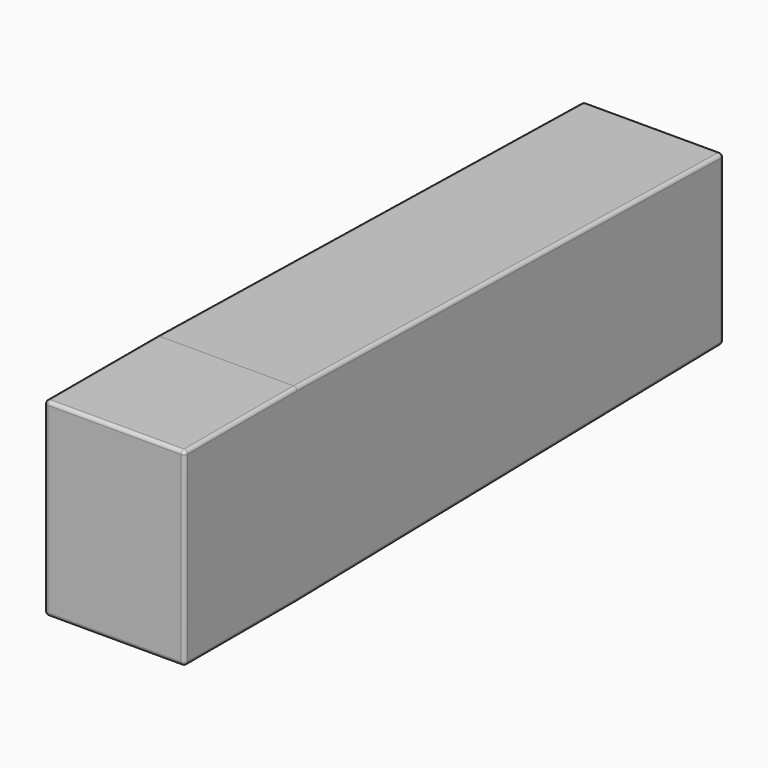
from build123d import *

# Parameters (mm, degrees)
F0_W     = 100
F0_H     = 135
F0_W_2   = 60
F0_H_2   = 120
F1_DEPTH = 100
F2_R     = 2.5


with BuildPart() as f1:
    # F0 (on Right) → F1 (new body)
    with BuildSketch(Plane.YZ):
        Rectangle(F0_W, F0_H)
        Polygon((430, 60), (50, 67.5), (50, -67.5), (430, -60), (370, -60), (370, 60), align=None)
        with Locations((400, 0)):
            Rectangle(F0_W_2, F0_H_2)
    extrude(amount=F1_DEPTH)

    # F2
    f2_edges = [f1.edges().sort_by_distance(p)[0] for p in [
        (100, 240, 63.75),
        (100, 430, 0),
        (100, 240, -63.75),
        (100, 0, 67.5),
        (100, -50, 0),
        (100, 0, -67.5),
        (50, -50, -67.5),
        (0, -50, 0),
        (0, 0, 67.5),
        (0, 240, -63.75),
        (0, 0, -67.5),
        (50, 430, -60),
        (0, 430, 0),
        (50, 430, 60),
        (0, 240, 63.75),
        (50, -50, 67.5),
    ]]
    fillet(f2_edges, radius=F2_R)


solid = f1.part
